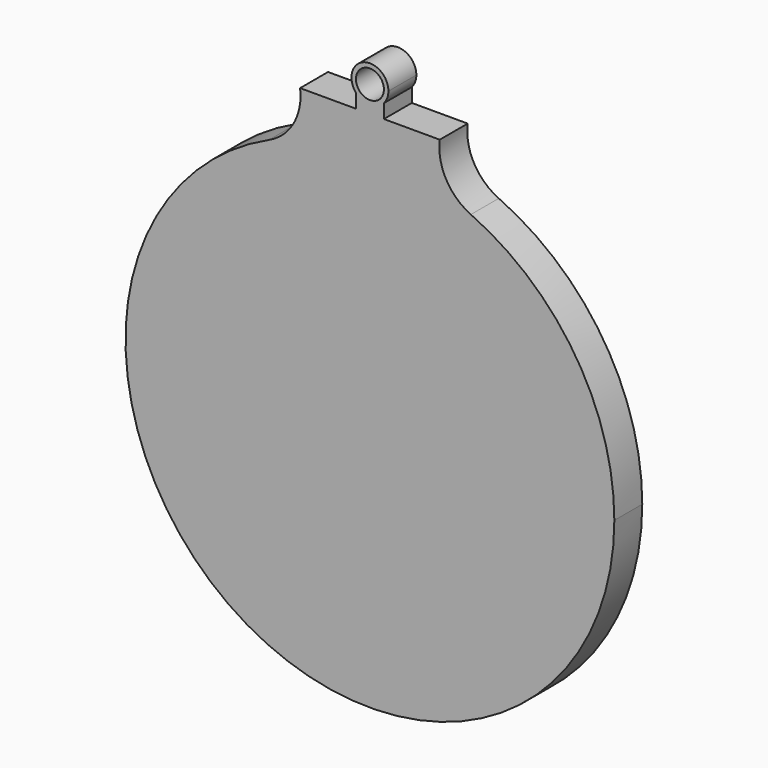
from build123d import *

# Parameters (mm, degrees)
F0_R     = 2.54
F1_DEPTH = 6.35


with BuildPart() as f1:
    # F0 (on Front) → F1 (new body)
    with BuildSketch(Plane.XZ):
        with BuildLine():
            ThreePointArc((-18.35955, 40.481223), (-24.080288, -37.36231), (44.45, 0))
            ThreePointArc((44.45, 0), (37.36231, 24.080288), (18.35955, 40.481223))
            ThreePointArc((18.35955, 40.481223), (0, 44.45), (-18.35955, 40.481223))
        make_face()
        with BuildLine():
            ThreePointArc((-18.35955, 40.481223), (0, 44.45), (18.35955, 40.481223))
            ThreePointArc((18.35955, 40.481223), (13.86159, 44.619019), (12.7, 50.619328))
            Line((12.7, 50.619328), (2.54, 50.619328))
            Line((2.54, 50.619328), (0, 50.619328))
            Line((0, 50.619328), (-2.54, 50.619328))
            Line((-2.54, 50.619328), (-12.7, 50.619328))
            ThreePointArc((-12.7, 50.619328), (-13.86159, 44.619019), (-18.35955, 40.481223))
        make_face()
        with BuildLine():
            Line((0, 50.619328), (2.54, 50.619328))
            Line((2.54, 50.619328), (2.54, 53.159328))
            ThreePointArc((2.54, 53.159328), (0, 51.999384), (-2.54, 53.159328))
            Line((-2.54, 53.159328), (-2.54, 50.619328))
            Line((-2.54, 50.619328), (0, 50.619328))
        make_face()
        with BuildLine():
            ThreePointArc((-2.54, 53.159328), (0, 51.999384), (2.54, 53.159328))
            ThreePointArc((2.54, 53.159328), (3.149045, 54.185778), (3.360969, 55.360353))
            ThreePointArc((3.360969, 55.360353), (-1.174575, 58.509398), (-2.54, 53.159328))
        make_face()
        with Locations((0, 55.360353)):
            Circle(F0_R, mode=Mode.SUBTRACT)
    extrude(amount=F1_DEPTH)


solid = f1.part
